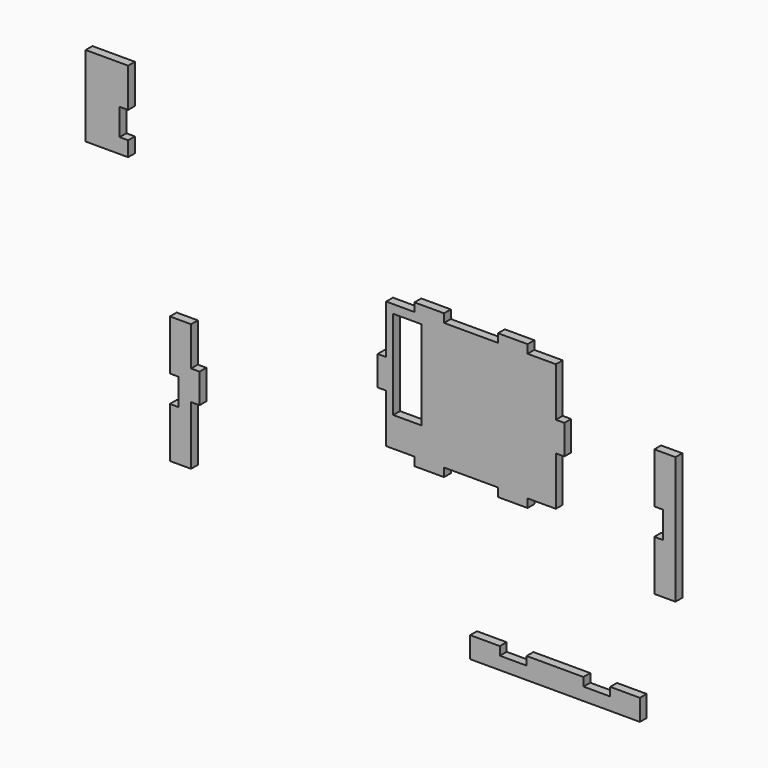
from build123d import *

# Parameters (mm, degrees)
F0_W     = 20
F0_H     = 63
F1_DEPTH = 6


with BuildPart() as f1:
    # F0 (on Front) → F1 (new body)
    with BuildSketch(Plane.XZ):
        Polygon((-47.513727, 70.888719), (-67.513727, 70.888719), (-67.513727, 36.338719), (-73.513727, 36.338719), (-73.513727, 15.438719), (-67.513727, 15.438719), (-67.513727, -19.111281), (-47.513727, -19.111281), (-47.513727, -25.111281), (-26.613727, -25.111281), (-26.613727, -19.111281), (11.586273, -19.111281), (11.586273, -25.111281), (32.486273, -25.111281), (32.486273, -19.111281), (52.486273, -19.111281), (52.486273, 15.438719), (58.486273, 15.438719), (58.486273, 36.338719), (52.486273, 36.338719), (52.486273, 70.888719), (32.486273, 70.888719), (32.486273, 76.888719), (11.586273, 76.888719), (11.586273, 70.888719), (-26.613727, 70.888719), (-26.613727, 76.888719), (-47.513727, 76.888719), align=None)
        with Locations((-52.513727, 33.388719)):
            Rectangle(F0_W, F0_H, mode=Mode.SUBTRACT)
        Polygon((12.900374, -117.434592), (-8.099626, -117.434592), (-8.099626, -132.434592), (111.900374, -132.434592), (111.900374, -117.434592), (90.900374, -117.434592), (90.900374, -123.434592), (72.000374, -123.434592), (72.000374, -117.434592), (31.800374, -117.434592), (31.800374, -123.434592), (12.900374, -123.434592), align=None)
        Polygon((137.0681, -49.440384), (137.0681, 40.559616), (122.0681, 40.559616), (122.0681, 5.009616), (128.0681, 5.009616), (128.0681, -13.890384), (122.0681, -13.890384), (122.0681, -49.440384), align=None)
        Polygon((-205.456549, -15.658894), (-205.456549, 11.891106), (-220.456549, 11.891106), (-220.456549, -23.658894), (-214.456549, -23.658894), (-214.456549, -42.558894), (-220.456549, -42.558894), (-220.456549, -78.108894), (-205.456549, -78.108894), (-205.456549, -36.558894), (-199.456549, -36.558894), (-199.456549, -15.658894), align=None)
        Polygon((-249.959351, 158.38494), (-279.959351, 158.38494), (-279.959351, 101.38494), (-249.959351, 101.38494), (-249.959351, 111.93494), (-255.959351, 111.93494), (-255.959351, 130.83494), (-249.959351, 130.83494), align=None)
    extrude(amount=F1_DEPTH)


solid = f1.part
